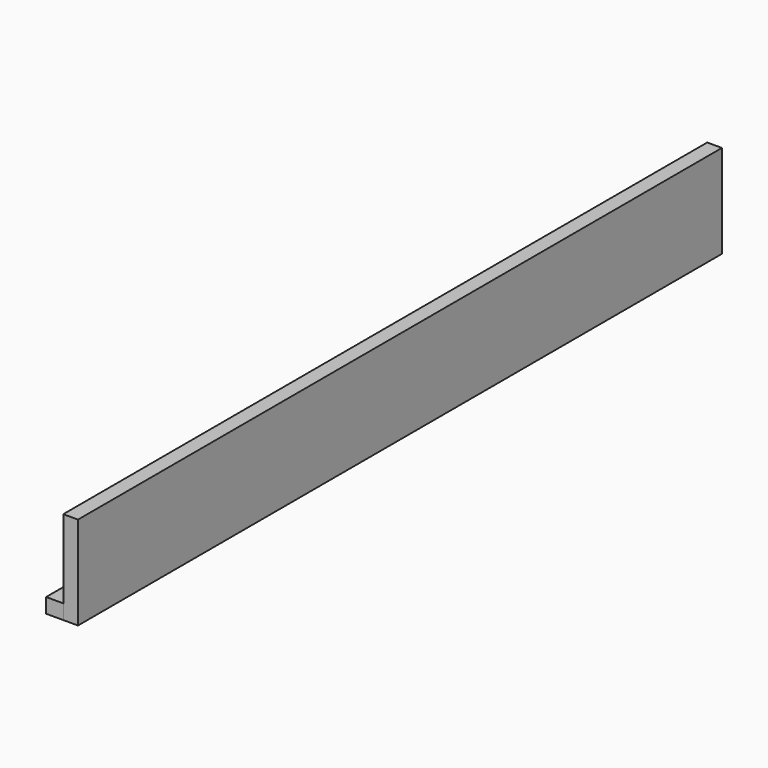
from build123d import *

# Parameters (mm, degrees)
F0_W     = 2082.8
F0_H     = 241.3
F1_DEPTH = 38.1
F2_W     = 2082.8
F2_H     = 38.1
F3_DEPTH = 44.45
F4_R     = 2.54
F5_DEPTH = 57.15


with BuildPart() as f1:
    # F0 (on Right) → F1 (new body)
    with BuildSketch(Plane.YZ):
        Rectangle(F0_W, F0_H)
    extrude(amount=F1_DEPTH)


with BuildPart() as f3:
    # F2 (on face) → F3 (new body)
    with BuildSketch(Plane(origin=(0, 0, 0), x_dir=(0, -1, 0), z_dir=(-1, 0, 0))):
        with Locations((0, -101.6)):
            Rectangle(F2_W, F2_H)
    extrude(amount=F3_DEPTH)


with BuildPart() as f5_tool:
    # F4 (on face) → F5 (new body)
    with BuildSketch(Plane(origin=(-44.45, 0, 0), x_dir=(0, -1, 0), z_dir=(-1, 0, 0))):
        with Locations((1003.3, -101.6)):
            Circle(F4_R)
        with Locations((850.9, -101.6)):
            Circle(F4_R)
        with Locations((698.5, -101.6)):
            Circle(F4_R)
        with Locations((546.1, -101.6)):
            Circle(F4_R)
        with Locations((393.7, -101.6)):
            Circle(F4_R)
        with Locations((241.3, -101.6)):
            Circle(F4_R)
        with Locations((88.9, -101.6)):
            Circle(F4_R)
        with Locations((-63.5, -101.6)):
            Circle(F4_R)
        with Locations((-215.9, -101.6)):
            Circle(F4_R)
        with Locations((-368.3, -101.6)):
            Circle(F4_R)
        with Locations((-520.7, -101.6)):
            Circle(F4_R)
        with Locations((-673.1, -101.6)):
            Circle(F4_R)
        with Locations((-825.5, -101.6)):
            Circle(F4_R)
        with Locations((-977.9, -101.6)):
            Circle(F4_R)
    extrude(amount=-F5_DEPTH)


with BuildPart() as f1_1:
    add(f1.part)

    # F5: cut by f5_tool
    add(f5_tool.part, mode=Mode.SUBTRACT)


with BuildPart() as f3_1:
    add(f3.part)

    # F5: cut by f5_tool
    add(f5_tool.part, mode=Mode.SUBTRACT)


solid = Compound([f1_1.part, f3_1.part])
